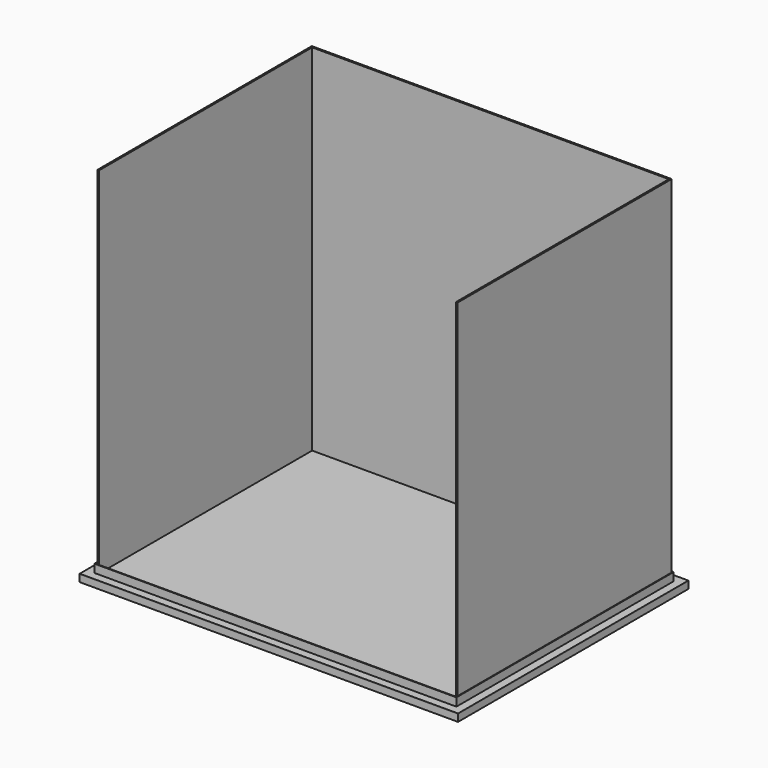
from build123d import *

# Parameters (mm, degrees)
F4_W     = 1066
F4_H     = 811
F5_DEPTH = 19
F6_DEPTH = 1000


with BuildPart() as f3:
    # F3: sweep along a path in F2
    with BuildLine(Plane.XY) as f3_path:
        Line((-508, -380.5), (-508, 380.5))
        Line((-508, 380.5), (508, 380.5))
        Line((508, 380.5), (508, -380.5))
        Line((508, -380.5), (-508, -380.5))
    # F1 (on Front) → F3 (sweep)
    with BuildSketch(Plane.XZ):
        Polygon((-533, 2), (-533, 0), (-508, 0), (-508, 25), (-510, 25), (-510, 2), align=None)
    sweep(path=f3_path.line, transition=Transition.RIGHT)


with BuildPart() as f5:
    # F4 (on Top) → F5 (new body)
    with BuildSketch(Plane.XY):
        Rectangle(F4_W, F4_H)
    extrude(amount=-F5_DEPTH)

    # F0 (on Top) → F6 (join)
    with BuildSketch(Plane.XY):
        Polygon((-502.5, -375), (-502.5, 375), (502.5, 375), (502.5, -375), (507, -375), (507, 379.5), (-507, 379.5), (-507, -375), align=None)
    extrude(amount=F6_DEPTH)


solid = Compound([f3.part, f5.part])
